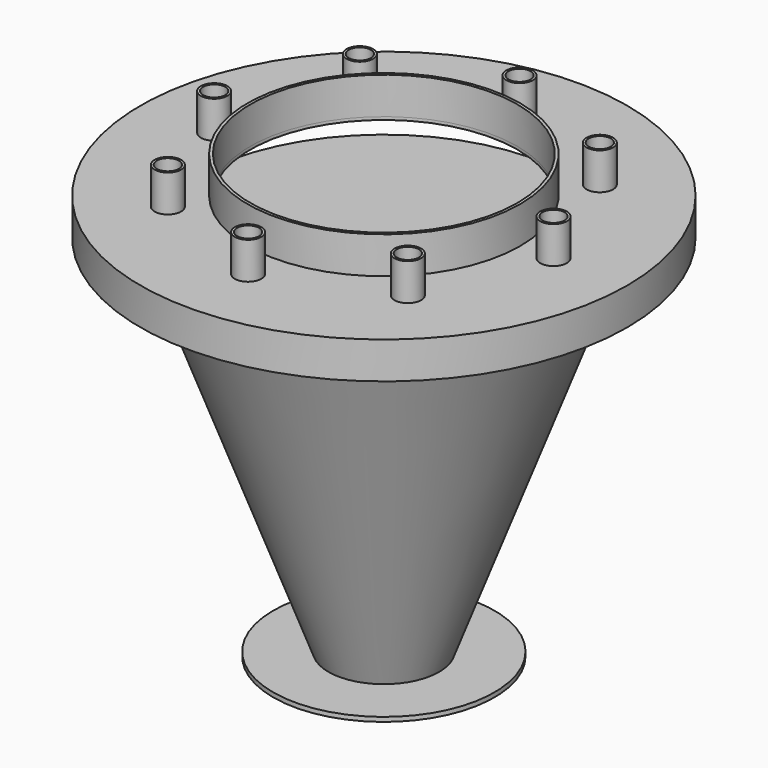
from build123d import *

# Parameters (mm, degrees)
F3_R      = 165
F4_DEPTH  = 25
F5_T      = -2
F6_R      = 92.5
F7_DEPTH  = 25
F8_T      = -2
F9_R      = 90.5
F10_DEPTH = 17
F11_R     = 7.5
F12_DEPTH = 25
F13_R     = 9
F13_R_2   = 7.5
F14_DEPTH = 25


with BuildPart() as f1:
    # F0 (on Front) → F1 (revolve)
    with BuildSketch(Plane.XZ):
        Polygon((0, -245), (0, 0), (-127.5, 0), (-37.5, -242), (-75, -242), (-75, -245), align=None)
    revolve(axis=Axis((0, 0, -122.5), (0, 0, 1)))


with BuildPart() as f4:
    # F3 (on offset) → F4 (new body)
    with BuildSketch(Plane.XY.offset(30)):
        Circle(F3_R)
    extrude(amount=-F4_DEPTH)

    # F5
    f5_openings = [f4.faces().sort_by_distance(p)[0] for p in [
        (0, 0, 5),
    ]]
    offset(amount=F5_T, openings=f5_openings)

    # F6 (on offset) → F7 (join)
    with BuildSketch(Plane.XY.offset(30)):
        Circle(F6_R)
    extrude(amount=F7_DEPTH)

    # F8
    f8_openings = [f4.faces().sort_by_distance(p)[0] for p in [
        (0, 0, 55),
    ]]
    offset(amount=F8_T, openings=f8_openings, kind=Kind.INTERSECTION)

    # F9 (on face) → F10 (cut)
    with BuildSketch(Plane.XY.offset(30)):
        Circle(F9_R)
    extrude(amount=-F10_DEPTH, mode=Mode.SUBTRACT)

    # F11 (on face) → F12 (cut)
    with BuildSketch(Plane.XY.offset(30)):
        with Locations((0, 115)):
            Circle(F11_R)
        with Locations((-81.3172798365, 81.3172798365)):
            Circle(F11_R)
        with Locations((-115, 0)):
            Circle(F11_R)
        with Locations((-81.3172798365, -81.3172798365)):
            Circle(F11_R)
        with Locations((0, -115)):
            Circle(F11_R)
        with Locations((81.3172798365, -81.3172798365)):
            Circle(F11_R)
        with Locations((115, 0)):
            Circle(F11_R)
        with Locations((81.3172798365, 81.3172798365)):
            Circle(F11_R)
    extrude(amount=-F12_DEPTH, mode=Mode.SUBTRACT)

    # F13 (on face) → F14 (join)
    with BuildSketch(Plane.XY.offset(30)):
        with Locations((0, 115)):
            Circle(F13_R)
        with Locations((0, 115)):
            Circle(F13_R_2, mode=Mode.SUBTRACT)
        with Locations((0, -115)):
            Circle(F13_R)
        with Locations((0, -115)):
            Circle(F13_R_2, mode=Mode.SUBTRACT)
        with Locations((-81.3172798365, 81.3172798365)):
            Circle(F13_R)
        with Locations((-81.3172798365, 81.3172798365)):
            Circle(F13_R_2, mode=Mode.SUBTRACT)
        with Locations((-115, 0)):
            Circle(F13_R)
        with Locations((-115, 0)):
            Circle(F13_R_2, mode=Mode.SUBTRACT)
        with Locations((-81.3172798365, -81.3172798365)):
            Circle(F13_R)
        with Locations((-81.3172798365, -81.3172798365)):
            Circle(F13_R_2, mode=Mode.SUBTRACT)
        with Locations((81.3172798365, -81.3172798365)):
            Circle(F13_R)
        with Locations((81.3172798365, -81.3172798365)):
            Circle(F13_R_2, mode=Mode.SUBTRACT)
        with Locations((115, 0)):
            Circle(F13_R)
        with Locations((115, 0)):
            Circle(F13_R_2, mode=Mode.SUBTRACT)
        with Locations((81.3172798365, 81.3172798365)):
            Circle(F13_R)
        with Locations((81.3172798365, 81.3172798365)):
            Circle(F13_R_2, mode=Mode.SUBTRACT)
    extrude(amount=F14_DEPTH)


solid = Compound([f1.part, f4.part])
